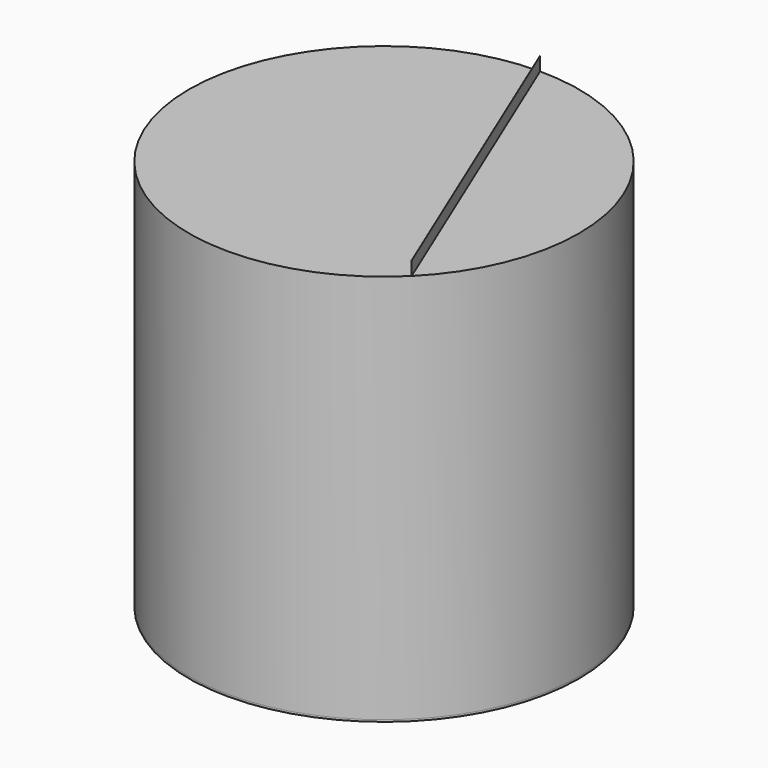
from build123d import *

# Parameters (mm, degrees)
F4_DEPTH = 207
F2_R     = 100
F2_R_2   = 80
F6_DEPTH = 200
F7_DEPTH = 1


with BuildPart() as f4:
    # F3 (on offset) → F4 (new body)
    with BuildSketch(Plane.XY.offset(-200)):
        Polygon((0, 100.019134), (0, 100), (70.710678, -70.710678), (70.756872, -70.710678), (70.756872, -70.691544), (0.046194, 100.019134), align=None)
    extrude(amount=F4_DEPTH)


with BuildPart() as f6:
    # F2 (on offset) → F6 (new body)
    with BuildSketch(Plane.XY.offset(-200)):
        Circle(F2_R)
        Circle(F2_R_2, mode=Mode.SUBTRACT)
        Circle(F2_R_2)
    extrude(amount=F6_DEPTH)


with BuildPart() as f7:
    # F2 (on offset) → F7 (new body)
    with BuildSketch(Plane.XY.offset(-200)):
        Circle(F2_R)
        Circle(F2_R_2, mode=Mode.SUBTRACT)
    extrude(amount=-F7_DEPTH)


solid = Compound([f4.part, f6.part, f7.part])
